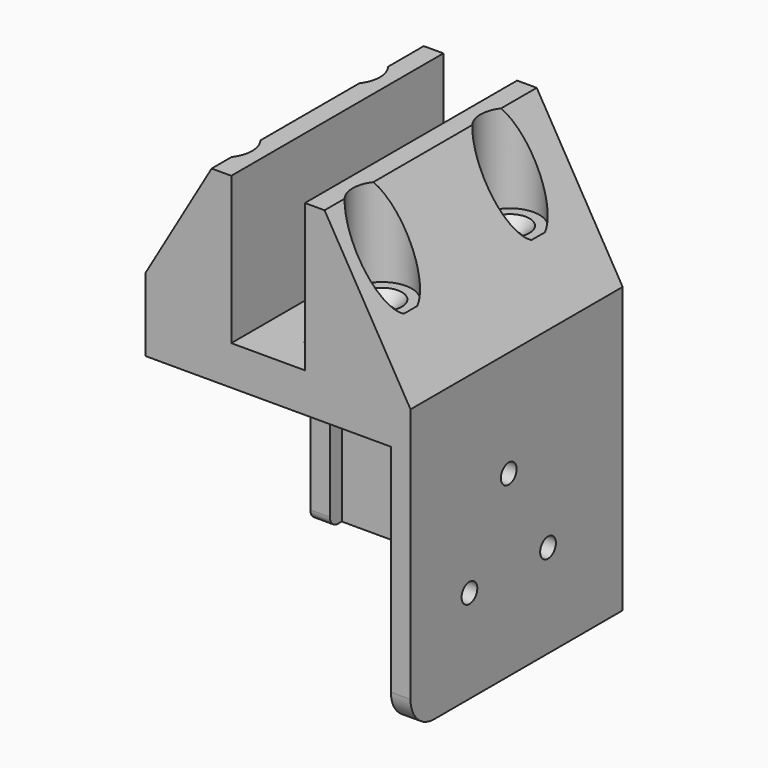
from build123d import *

# Parameters (mm, degrees)
PAD006_DEPTH    = 54
SKETCH035_W     = 50
SKETCH035_H     = 50
POCKET015_DEPTH = 50
SKETCH036_W     = 47
SKETCH036_H     = 50
POCKET016_DEPTH = 50
FILLET008_R     = 6
FILLET009_R     = 2
SKETCH037_W     = 4
SKETCH037_H     = 47
POCKET017_DEPTH = 25
SKETCH038_R     = 2
POCKET018_DEPTH = 50
CHAMFER008_SIZE = 2
SKETCH039_R     = 6
POCKET019_DEPTH = 50
CHAMFER009_SIZE = 2
SKETCH040_R     = 2
POCKET020_DEPTH = 50
SKETCH041_R     = 2
POCKET021_DEPTH = 10


with BuildPart() as part:
    # Sketch034 → Pad006 (new body)
    with BuildSketch(Plane.XZ):
        Polygon((-7.5, 0), (7.5, 0), (7.5, 30), (11.5, 30), (29, 0), (29, -58), (-29, -58), (-29, 0), (-11.5, 30), (-7.5, 30), align=None)
    extrude(amount=PAD006_DEPTH)

    # Sketch035 → Pocket015 (cut)
    with BuildSketch(Plane.XZ.offset(4)):
        with Locations((0, -33)):
            Rectangle(SKETCH035_W, SKETCH035_H)
    extrude(amount=POCKET015_DEPTH, mode=Mode.SUBTRACT)

    # Sketch036 → Pocket016 (cut)
    with BuildSketch(Plane.YZ):
        with Locations((-30.5, -33)):
            Rectangle(SKETCH036_W, SKETCH036_H)
    extrude(amount=-POCKET016_DEPTH, mode=Mode.SUBTRACT)

    # Fillet008
    fillet008_edges = [part.edges().sort_by_distance(p)[0] for p in [
        (27, -54, -58),
    ]]
    fillet(fillet008_edges, radius=FILLET008_R)

    # Fillet009
    fillet009_edges = [part.edges().sort_by_distance(p)[0] for p in [
        (-27, -7, -58),
    ]]
    fillet(fillet009_edges, radius=FILLET009_R)

    # Sketch037 → Pocket017 (cut, symmetric)
    with BuildSketch(Plane.XY):
        with Locations((-27, -30.5)):
            Rectangle(SKETCH037_W, SKETCH037_H)
    extrude(amount=POCKET017_DEPTH, both=True, mode=Mode.SUBTRACT)

    # Sketch038 → Pocket018 (cut, symmetric)
    with BuildSketch(Plane.XY):
        with Locations((-16.25, -12.75)):
            Circle(SKETCH038_R)
        with Locations((-16.25, -45.25)):
            Circle(SKETCH038_R)
        with Locations((16.25, -45.25)):
            Circle(SKETCH038_R)
        with Locations((16.25, -12.75)):
            Circle(SKETCH038_R)
        with Locations((-3, -12.75)):
            Circle(SKETCH038_R)
        with Locations((3, -45.25)):
            Circle(SKETCH038_R)
    extrude(amount=POCKET018_DEPTH, both=True, mode=Mode.SUBTRACT)

    # Chamfer008
    chamfer008_edges = [part.edges().sort_by_distance(p)[0] for p in [
        (1, -45.25, -8),
        (-5, -12.75, -8),
    ]]
    chamfer(chamfer008_edges, length=CHAMFER008_SIZE)

    # Sketch039 → Pocket019 (cut)
    with BuildSketch(Plane.XY.offset(12)):
        with Locations((-16.25, -12.75)):
            Circle(SKETCH039_R)
        with Locations((-16.25, -45.25)):
            Circle(SKETCH039_R)
        with Locations((16.25, -45.25)):
            Circle(SKETCH039_R)
        with Locations((16.25, -12.75)):
            Circle(SKETCH039_R)
    extrude(amount=POCKET019_DEPTH, mode=Mode.SUBTRACT)

    # Chamfer009
    chamfer009_edges = [part.edges().sort_by_distance(p)[0] for p in [
        (-18.25, -45.25, 12),
        (-18.25, -12.75, 12),
        (14.25, -45.25, 12),
        (14.25, -12.75, 12),
    ]]
    chamfer(chamfer009_edges, length=CHAMFER009_SIZE)

    # Sketch040 → Pocket020 (cut)
    with BuildSketch(Plane.YZ):
        with Locations((-29, -21.679492)):
            Circle(SKETCH040_R)
        with Locations((-39, -39)):
            Circle(SKETCH040_R)
        with Locations((-19, -39)):
            Circle(SKETCH040_R)
    extrude(amount=POCKET020_DEPTH, mode=Mode.SUBTRACT)

    # Sketch041 → Pocket021 (cut)
    with BuildSketch(Plane.XZ):
        with Locations((-10, -19)):
            Circle(SKETCH041_R)
        with Locations((10, -19)):
            Circle(SKETCH041_R)
        with Locations((-10, -39)):
            Circle(SKETCH041_R)
        with Locations((10, -39)):
            Circle(SKETCH041_R)
    extrude(amount=POCKET021_DEPTH, mode=Mode.SUBTRACT)


solid = part.part
